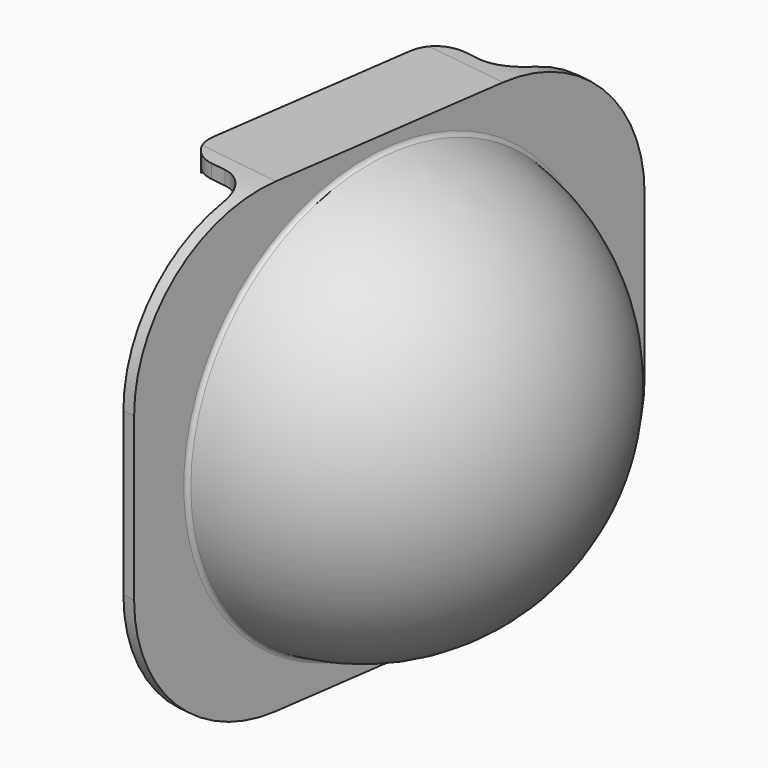
from build123d import *

# Parameters (mm, degrees)
F3_T      = -2.5
F4_DEPTH  = 30
F5_W      = 90
F5_H      = 76.6
F5_R      = 33.1181650608
F6_DEPTH  = 2
F8_DEPTH  = 12.5
F9_R      = 5
F10_R     = 25
F11_W     = 11.1
F11_H     = 71.8
F12_DEPTH = 50
F13_R     = 0.65
F14_R     = 0.7


with BuildPart() as f1:
    # F0 (on Front) → F1 (revolve)
    with BuildSketch(Plane.XZ):
        with BuildLine():
            Line((0, 0), (36, 0))
            ThreePointArc((36, 0), (25.4558441227, 25.4558441227), (0, 36))
            Line((0, 36), (0, 0))
        make_face()
    revolve(axis=Axis((-18.0951004178, 0, 0), (-1, 0, 0)))

    # F3
    f3_openings = [f1.faces().sort_by_distance(p)[0] for p in [
        (0, 0, 0),
    ]]
    offset(amount=F3_T, openings=f3_openings)

    # F2 (on Top) → F4 (cut, symmetric)
    with BuildSketch(Plane.XY):
        Polygon((0, 36.4718921483), (0, -36.2392216921), (10.2188806313, 36.4718921483), align=None)
    extrude(amount=F4_DEPTH, both=True, mode=Mode.SUBTRACT)

    # F5 (on face) → F6 (join)
    with BuildSketch(Plane(origin=(4.994441622, -0.7019229944, 0), x_dir=(-0.139173101, -0.9902680687, 0), z_dir=(-0.9902680687, 0.139173101, 0))):
        Rectangle(F5_W, F5_H)
        Circle(F5_R, mode=Mode.SUBTRACT)
    extrude(amount=F6_DEPTH)

    # F7 (on face) → F8 (join)
    with BuildSketch(Plane(origin=(3.0139054846, -0.4235767925, 0), x_dir=(-0.139173101, -0.9902680687, 0), z_dir=(-0.9902680687, 0.139173101, 0))):
        with BuildLine():
            Line((8.7003997857, 34.8), (22.4027797757, 34.8))
            Line((22.4027797757, 34.8), (22.4027797757, 38.3))
            Line((22.4027797757, 38.3), (-22.4027797757, 38.3))
            Line((-22.4027797757, 38.3), (-22.4027797757, 34.8))
            Line((-22.4027797757, 34.8), (-8.7003997857, 34.8))
            ThreePointArc((-8.7003997857, 34.8), (0, 35.8711159072), (8.7003997857, 34.8))
        make_face()
        with BuildLine():
            Line((-22.4027797757, -38.3), (22.4027797757, -38.3))
            Line((22.4027797757, -38.3), (22.4027797757, -34.8))
            Line((22.4027797757, -34.8), (8.7003997857, -34.8))
            ThreePointArc((8.7003997857, -34.8), (0, -35.8711159072), (-8.7003997857, -34.8))
            Line((-8.7003997857, -34.8), (-22.4027797757, -34.8))
            Line((-22.4027797757, -34.8), (-22.4027797757, -38.3))
        make_face()
    extrude(amount=F8_DEPTH)

    # F9
    f9_edges = [f1.edges().sort_by_distance(p)[0] for p in [
        (6.13177, 21.761181, 36.55),
        (-6.246581, 23.500844, 36.55),
        (-12.48231, -20.86867, 36.55),
        (-0.103959, -22.608334, 36.55),
        (-0.103959, -22.608334, -36.55),
        (-12.48231, -20.86867, -36.55),
        (-6.246581, 23.500844, -36.55),
        (6.13177, 21.761181, -36.55),
    ]]
    fillet(f9_edges, radius=F9_R)

    # F10
    f10_edges = [f1.edges().sort_by_distance(p)[0] for p in [
        (10.266963, 43.999313, 38.3),
        (10.266963, 43.999313, -38.3),
        (-2.258616, -45.124813, -38.3),
        (-2.258616, -45.124813, 38.3),
    ]]
    fillet(f10_edges, radius=F10_R)

    # F11 (on face) → F12 (cut, symmetric)
    with BuildSketch(Plane(origin=(3.1178643315, 22.184757463, 0), x_dir=(-0.9902680687, 0.139173101, 0), z_dir=(0.139173101, 0.9902680687, 0))):
        with Locations((2.5064751407, 0)):
            Rectangle(F11_W, F11_H)
    extrude(amount=F12_DEPTH, both=True, mode=Mode.SUBTRACT)

    # F13
    f13_edges = [f1.edges().sort_by_distance(p)[0] for p in [
        (-7.97807, 1.121245, 35.9),
        (-7.97807, 1.121245, -35.9),
    ]]
    fillet(f13_edges, radius=F13_R)

    # F14
    f14_edges = [f1.edges().sort_by_distance(p)[0] for p in [
        (27.196978, 0, 23.586529),
        (4.895793, -1.403846, -35.637907),
        (3.013905, -0.423577, -35.9),
        (3.013905, -0.423577, 35.9),
    ]]
    fillet(f14_edges, radius=F14_R)


solid = f1.part
